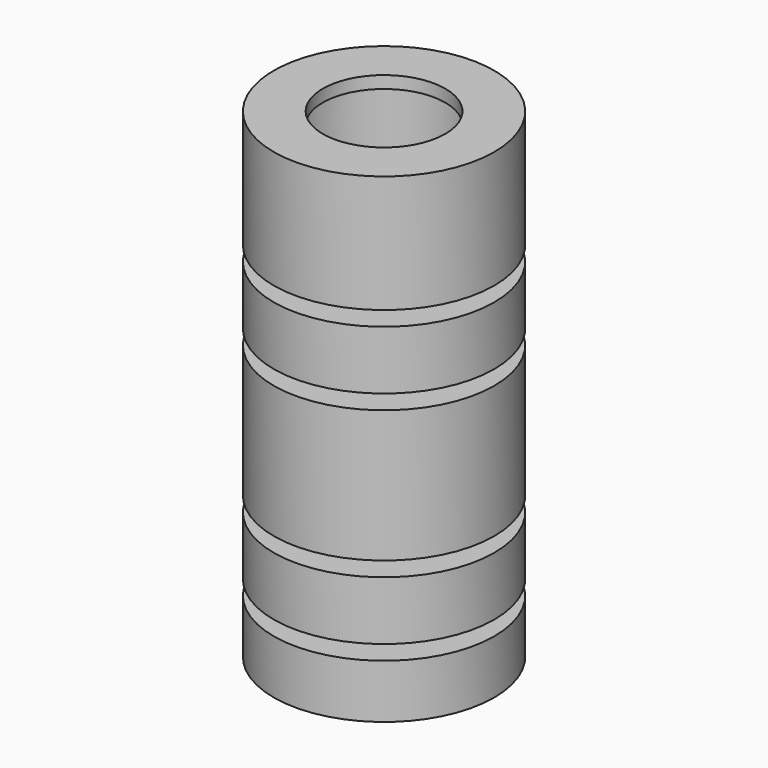
from build123d import *

# Parameters (mm, degrees)
CYLINDER019_R     = 2.5
CYLINDER019_DEPTH = 25
CYLINDER017_R     = 4.5
CYLINDER017_DEPTH = 0.5
CYLINDER016_R     = 0.65
CYLINDER016_DEPTH = 25
CYLINDER018_R     = 4.5
CYLINDER018_DEPTH = 0.2
CYLINDER012_R     = 3.175
CYLINDER012_DEPTH = 25
CYLINDER015_R     = 2
CYLINDER015_DEPTH = 2
CYLINDER021_R     = 4.5
CYLINDER021_DEPTH = 2.4
CYLINDER014_R     = 4.5
CYLINDER014_DEPTH = 5.4
CYLINDER022_R     = 4.5
CYLINDER022_DEPTH = 2.4
CYLINDER020_R     = 4.5
CYLINDER020_DEPTH = 4.8
CYLINDER013_R     = 4.5
CYLINDER013_DEPTH = 2.2


with BuildPart() as aperture004:
    # Cylinder019 → Cylinder019 (new body)
    with BuildSketch(Plane.XY.offset(10)):
        Circle(CYLINDER019_R)
    extrude(amount=CYLINDER019_DEPTH)


with BuildPart() as cut005:
    # Cylinder017 → Cylinder017 (new body)
    with BuildSketch(Plane.XY.offset(19.1)):
        Circle(CYLINDER017_R)
    extrude(amount=CYLINDER017_DEPTH)

    # Cut005: cut Aperture004
    add(aperture004.part, mode=Mode.SUBTRACT)


with BuildPart() as aperture003:
    # Cylinder016 → Cylinder016 (new body)
    with BuildSketch(Plane.XY):
        Circle(CYLINDER016_R)
    extrude(amount=CYLINDER016_DEPTH)


with BuildPart() as cut007:
    # Cylinder018 → Cylinder018 (new body)
    with BuildSketch(Plane.XY.offset(2)):
        Circle(CYLINDER018_R)
    extrude(amount=CYLINDER018_DEPTH)

    # Cut007: cut Aperture003
    add(aperture003.part, mode=Mode.SUBTRACT)


with BuildPart() as inner_radius001:
    # Cylinder012 → Cylinder012 (new body)
    with BuildSketch(Plane.XY):
        Circle(CYLINDER012_R)
    extrude(amount=CYLINDER012_DEPTH)


with BuildPart() as cylinder015:
    # Cylinder015 → Cylinder015 (new body)
    with BuildSketch(Plane.XY.offset(2.5)):
        Circle(CYLINDER015_R)
    extrude(amount=CYLINDER015_DEPTH)


with BuildPart() as obj1:
    # Cylinder021 → Cylinder021 (new body)
    with BuildSketch(Plane.XY.offset(2.8)):
        Circle(CYLINDER021_R)
    extrude(amount=CYLINDER021_DEPTH)


with BuildPart() as obj2:
    # Cylinder014 → Cylinder014 (new body)
    with BuildSketch(Plane.XY.offset(5.8)):
        Circle(CYLINDER014_R)
    extrude(amount=CYLINDER014_DEPTH)


with BuildPart() as obj3:
    # Cylinder022 → Cylinder022 (new body)
    with BuildSketch(Plane.XY.offset(11.8)):
        Circle(CYLINDER022_R)
    extrude(amount=CYLINDER022_DEPTH)


with BuildPart() as obj4:
    # Cylinder020 → Cylinder020 (new body)
    with BuildSketch(Plane.XY.offset(14.8)):
        Circle(CYLINDER020_R)
    extrude(amount=CYLINDER020_DEPTH)


with BuildPart() as fusion003:
    # Cylinder013 → Cylinder013 (new body)
    with BuildSketch(Plane.XY):
        Circle(CYLINDER013_R)
    extrude(amount=CYLINDER013_DEPTH)

    # Fusion002: union Cylinder015, obj1, obj2, obj3, obj4
    add(cylinder015.part)
    add(obj1.part)
    add(obj2.part)
    add(obj3.part)
    add(obj4.part)

    # Cut006: cut Inner radius001
    add(inner_radius001.part, mode=Mode.SUBTRACT)

    # Fusion003: union Cut005, Cut007
    add(cut005.part)
    add(cut007.part)


solid = fusion003.part
